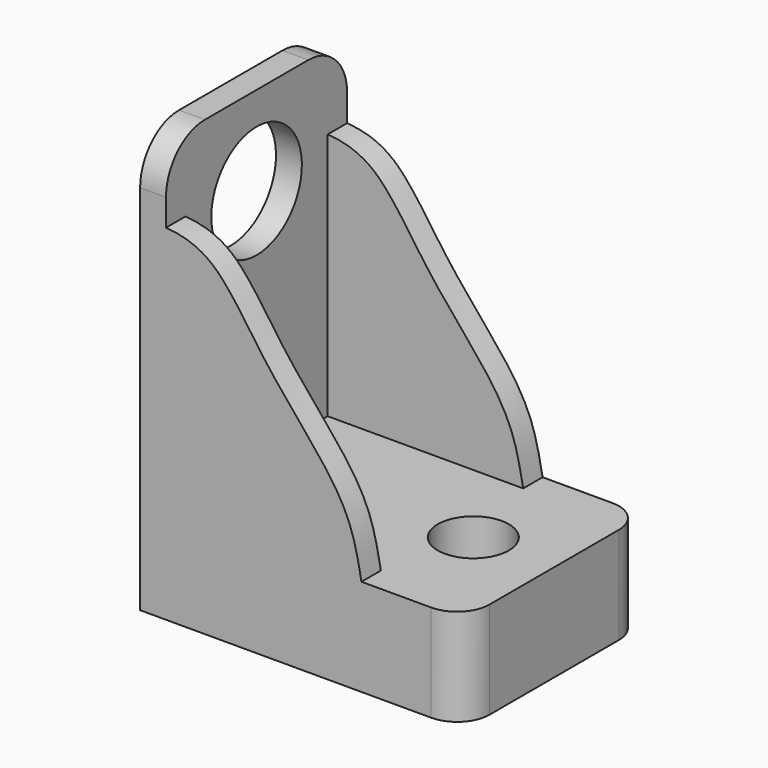
from build123d import *

# Parameters (mm, degrees)
PAD_DEPTH         = 1.5
CYLINDER001_R     = 2.2
CYLINDER001_DEPTH = 10
CYLINDER_R        = 3.5
CYLINDER_DEPTH    = 10
BOX001_W          = 1.6
BOX001_H          = 14
BOX001_DEPTH      = 20
FILLET001_R       = 3
BOX_W             = 20
BOX_H             = 14
BOX_DEPTH         = 6
FILLET_R          = 2


with BuildPart() as side_wall_body:
    # Sketch → Pad (new body)
    with BuildSketch(Plane.XZ):
        with BuildLine():
            Line((0, 21.297815), (0, 0))
            Line((0, 0), (14.6909, 0))
            add(Edge.make_bspline(
                [(0, 21.297815), (3.272985, 21.659939), (5.756082, 19.125105), (7.618405, 16.072966), (10.515349, 12.71044), (13.308836, 9.192718), (13.722685, 5.778458), (14.6909, 0)],
                knots=[0, 0, 0, 0, 0.2, 0.4, 0.6, 0.8, 1, 1, 1, 1], degree=3))
        make_face()
    extrude(amount=PAD_DEPTH)


with BuildPart() as side_wall_fusion:
    # Part__Mirroring: instance of side wall body
    add(side_wall_body.part.mirror(Plane(origin=(0, 5.5, 0), x_dir=(1, 0, 0), z_dir=(0, 1, 0))))

    # Fusion002: union side wall body
    add(side_wall_body.part)


with BuildPart() as side_wall_fusion_1:
    # Fusion002 placement: moved
    add(side_wall_fusion.part.moved(Location((0, 1.5, 0))))


with BuildPart() as bolt_hole:
    # Cylinder001 → Cylinder001 (new body)
    with BuildSketch(Plane(origin=(15, 7, -4), x_dir=(1, 0, 0), z_dir=(0, 0, 1))):
        Circle(CYLINDER001_R)
    extrude(amount=CYLINDER001_DEPTH)


with BuildPart() as hole_fusion:
    # Cylinder → Cylinder (new body)
    with BuildSketch(Plane(origin=(-3, 7, 20.5), x_dir=(0, 0, -1), z_dir=(1, 0, 0))):
        Circle(CYLINDER_R)
    extrude(amount=CYLINDER_DEPTH)

    # Fusion001: union bolt hole
    add(bolt_hole.part)


with BuildPart() as socket_fillet:
    # Box001 → Box001 (new body)
    with BuildSketch(Plane.XY.offset(6)):
        with Locations((0.8, 7)):
            Rectangle(BOX001_W, BOX001_H)
    extrude(amount=BOX001_DEPTH)

    # Fillet001
    fillet001_edges = [socket_fillet.edges().sort_by_distance(p)[0] for p in [
        (0.8, 0, 26),
        (0.8, 14, 26),
    ]]
    fillet(fillet001_edges, radius=FILLET001_R)


with BuildPart() as audio_socket_fusion:
    # Box → Box (new body)
    with BuildSketch(Plane.XY):
        with Locations((10, 7)):
            Rectangle(BOX_W, BOX_H)
    extrude(amount=BOX_DEPTH)

    # Fillet
    fillet_edges = [audio_socket_fusion.edges().sort_by_distance(p)[0] for p in [
        (20, 0, 3),
        (20, 14, 3),
    ]]
    fillet(fillet_edges, radius=FILLET_R)

    # Fusion: union socket fillet
    add(socket_fillet.part)

    # Cut: cut hole fusion
    add(hole_fusion.part, mode=Mode.SUBTRACT)

    # Fusion003: union side wall fusion
    add(side_wall_fusion_1.part)


solid = audio_socket_fusion.part
